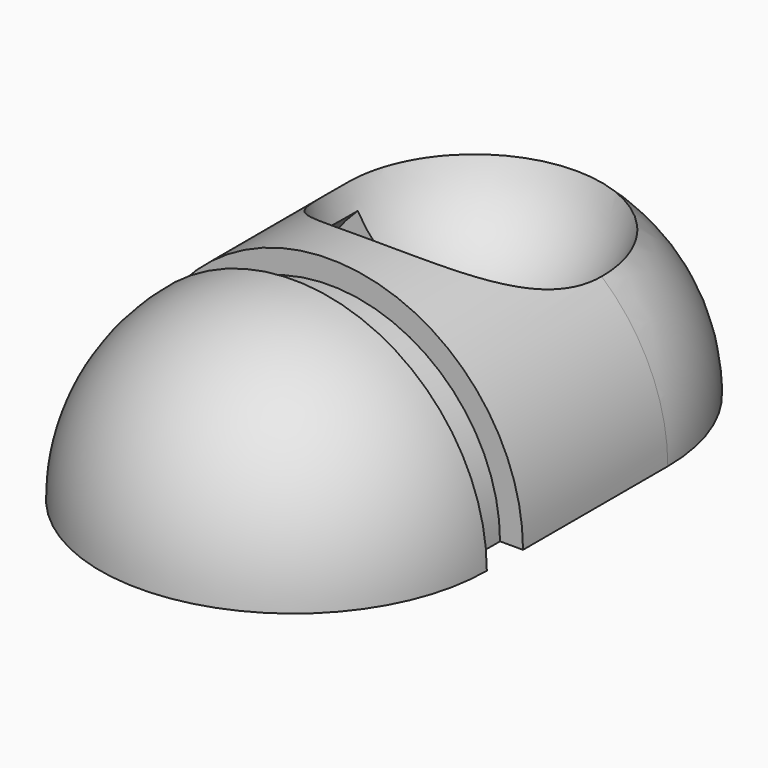
from build123d import *

# Parameters (mm, degrees)
F2_ANGLE = -90
F3_DEPTH = 0.5
F5_DEPTH = 2
F7_ANGLE = 90


with BuildPart() as f2:
    # F1 (on Top) → F2 (revolve)
    with BuildSketch(Plane.XY):
        with BuildLine():
            Line((-6.440515, 0), (-10.712815, 0))
            ThreePointArc((-10.712815, 0), (-8.576665, -2.13615), (-6.440515, 0))
        make_face()
    revolve(axis=Axis((-8.576665, 0, 0), (1, 0, 0)), revolution_arc=F2_ANGLE)

    # F0 (on Front) → F3 (join)
    with BuildSketch(Plane.XZ):
        with BuildLine():
            Line((-10.458815, 0), (-6.694515, 0))
            ThreePointArc((-6.694515, 0), (-8.576665, 1.88215), (-10.458815, 0))
        make_face()
    extrude(amount=-F3_DEPTH)


with BuildPart() as f5:
    # F4 (on face) → F5 (new body)
    with BuildSketch(Plane(origin=(0, 0.5, 0), x_dir=(-1, 0, 0), z_dir=(0, 1, 0))):
        with BuildLine():
            Line((10.458815, 0), (10.712815, 0))
            ThreePointArc((10.712815, 0), (8.576665, 2.13615), (6.440515, 0))
            Line((6.440515, 0), (6.694515, 0))
            ThreePointArc((6.694515, 0), (8.576665, 1.88215), (10.458815, 0))
        make_face()
    extrude(amount=F5_DEPTH)

    # F6 (on Top) → F7 (revolve)
    with BuildSketch(Plane.XY):
        with BuildLine():
            Line((-10.712815, 2.5), (-6.440515, 2.5))
            ThreePointArc((-6.440515, 2.5), (-8.576665, 4.63615), (-10.712815, 2.5))
        make_face()
    revolve(axis=Axis((-8.576665, 2.5, 0), (1, 0, 0)), revolution_arc=F7_ANGLE)

    # F9 (on offset) → F10 (revolve, cut)
    with BuildSketch(Plane.XY.offset(2.1336)):
        with BuildLine():
            ThreePointArc((-7.076665, 2.5), (-8.576665, 4), (-10.076665, 2.5))
            Line((-10.076665, 2.5), (-7.076665, 2.5))
        make_face()
    revolve(axis=Axis((-8.576665, 2.5, 2.1336), (1, 0, 0)), mode=Mode.SUBTRACT)


solid = Compound([f2.part, f5.part])
